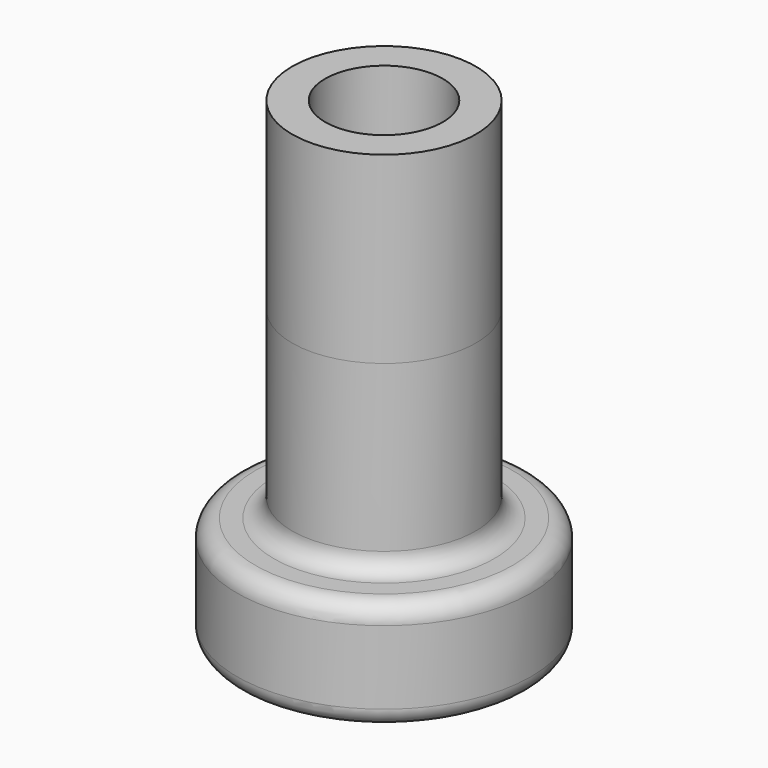
from build123d import *

# Parameters (mm, degrees)
F2_SIZE2 = 0.75
F2_SIZE  = 1
F5_R     = 0.5


with BuildPart() as f1:
    # F0 (on Front) → F1 (revolve)
    with BuildSketch(Plane.XZ):
        Polygon((-1.6, 6), (-1.6, 10), (-2.5, 10), (-2.5, 0), (-1.4, 0), (-1.4, -3), (0, -3), (0, 6), align=None)
    revolve(axis=Axis((0, 0, -0.0238702632), (0, 0, -1)))

    # F2
    f2_edges = [f1.edges().sort_by_distance(p)[0] for p in [
        (1.4, 0, -3),
    ]]
    chamfer(f2_edges, length=F2_SIZE, length2=F2_SIZE2)


with BuildPart() as f4:
    # F3 (on Front) → F4 (revolve)
    with BuildSketch(Plane.XZ):
        Polygon((-1.5, 1), (-1.5, 5), (-2.5, 5), (-2.5, 0), (-4, 0), (-4, -3), (0, -3), (0, 1), align=None)
    revolve(axis=Axis((0, 0, 1.4723995883), (0, 0, -1)))

    # F5
    f5_edges = [f4.edges().sort_by_distance(p)[0] for p in [
        (4, 0, -3),
        (4, 0, 0),
        (2.5, 0, 0),
    ]]
    fillet(f5_edges, radius=F5_R)


solid = Compound([f1.part, f4.part])
